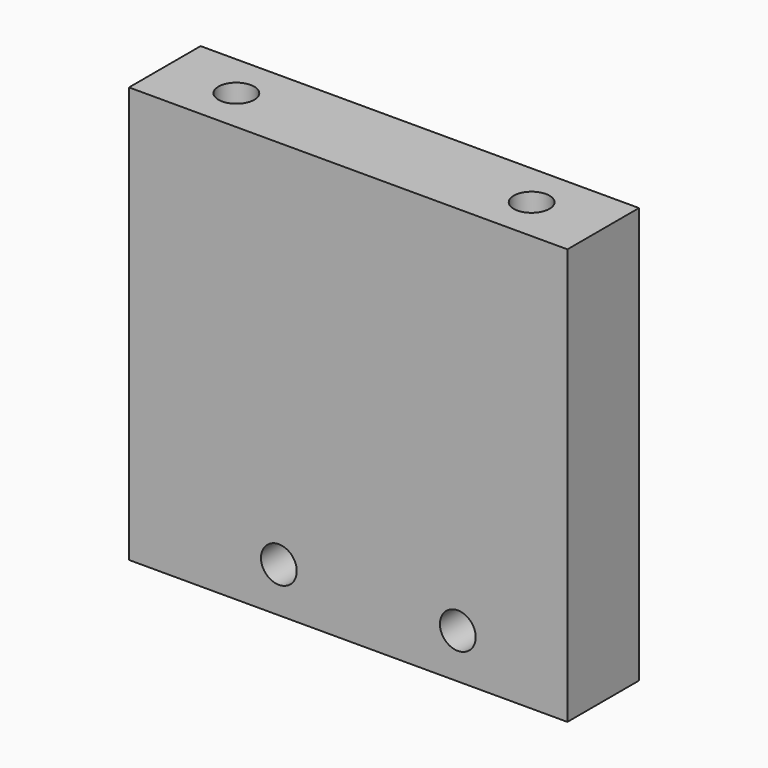
from build123d import *

# Parameters (mm, degrees)
F0_W     = 49
F0_H     = 46.5
F1_DEPTH = 10
F2_R     = 2
F3_DEPTH = 10.001
F4_R     = 2
F5_DEPTH = 20
F6_R     = 2
F7_DEPTH = 20


with BuildPart() as f1:
    # F0 (on Front) → F1 (new body)
    with BuildSketch(Plane.XZ):
        with Locations((0, 23.25)):
            Rectangle(F0_W, F0_H)
    extrude(amount=F1_DEPTH)

    # F2 (on face) → F3 (cut, through all)
    with BuildSketch(Plane(origin=(0, 0, 0), x_dir=(-1, 0, 0), z_dir=(0, 1, 0))):
        with Locations((-12.25, 5)):
            Circle(F2_R)
        with Locations((7.75, 5)):
            Circle(F2_R)
    extrude(amount=-F3_DEPTH, mode=Mode.SUBTRACT)

    # F4 (on face) → F5 (cut)
    with BuildSketch(Plane.XY.offset(46.5)):
        with Locations((16.5, -5)):
            Circle(F4_R)
        with Locations((-16.5, -5)):
            Circle(F4_R)
    extrude(amount=-F5_DEPTH, mode=Mode.SUBTRACT)

    # F6 (on face) → F7 (cut)
    with BuildSketch(Plane(origin=(0, 0, 0), x_dir=(1, 0, 0), z_dir=(0, 0, -1))):
        with Locations((-16.5, 5)):
            Circle(F6_R)
        with Locations((16.5, 5)):
            Circle(F6_R)
    extrude(amount=-F7_DEPTH, mode=Mode.SUBTRACT)


solid = f1.part
